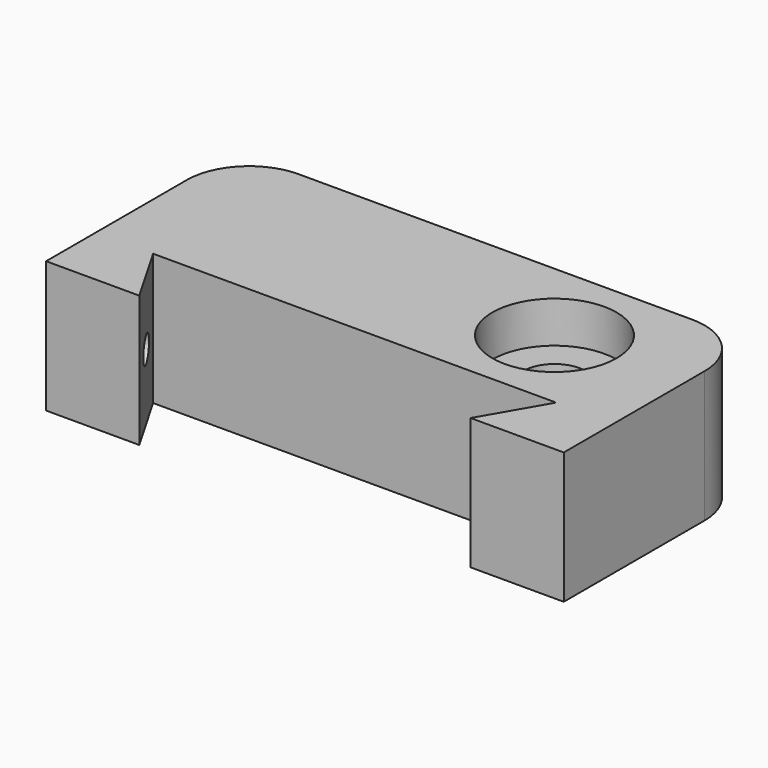
from build123d import *

# Parameters (mm, degrees)
SKETCH002_R     = 6
PAD_DEPTH       = 25.4
SKETCH_R        = 12
POCKET_DEPTH    = 8
SKETCH003_R     = 12
POCKET001_DEPTH = 8
SKETCH004_R     = 2.5
POCKET002_DEPTH = 16


with BuildPart() as part:
    # Sketch002 → Pad (new body)
    with BuildSketch(Plane.XY):
        with BuildLine():
            Line((-32, 0), (-38.928203, 12))
            Line((-38.928203, 12), (38.928203, 12))
            Line((38.928203, 12), (32, 0))
            Line((50, 0), (32, 0))
            Line((50, 33.999968), (50, 0))
            ThreePointArc((50, 33.999968), (46.485286, 42.485276), (37.999982, 46))
            Line((-37.999961, 45.999976), (37.999982, 46))
            ThreePointArc((-37.999961, 45.999976), (-46.485271, 42.485268), (-50, 33.999968))
            Line((-50, 0), (-50, 33.999968))
            Line((-32, 0), (-50, 0))
        make_face()
        with Locations((25, 29)):
            Circle(SKETCH002_R, mode=Mode.SUBTRACT)
    extrude(amount=PAD_DEPTH)

    # Sketch → Pocket (cut)
    with BuildSketch(Plane.XY.offset(25.4)):
        with Locations((25, 29)):
            Circle(SKETCH_R)
    extrude(amount=-POCKET_DEPTH, mode=Mode.SUBTRACT)

    # Sketch003 → Pocket001 (cut)
    with BuildSketch(Plane(origin=(0, 0, 0), x_dir=(1, 0, 0), z_dir=(0, 0, -1))):
        with Locations((25, -29)):
            Circle(SKETCH003_R)
    extrude(amount=-POCKET001_DEPTH, mode=Mode.SUBTRACT)

    # Sketch004 → Pocket002 (cut)
    with BuildSketch(Plane(origin=(-50, 0, 0), x_dir=(0, -1, 0), z_dir=(-1, 0, 0))):
        with Locations((-6, 12.7)):
            Circle(SKETCH004_R)
    extrude(amount=-POCKET002_DEPTH, mode=Mode.SUBTRACT)


solid = part.part
